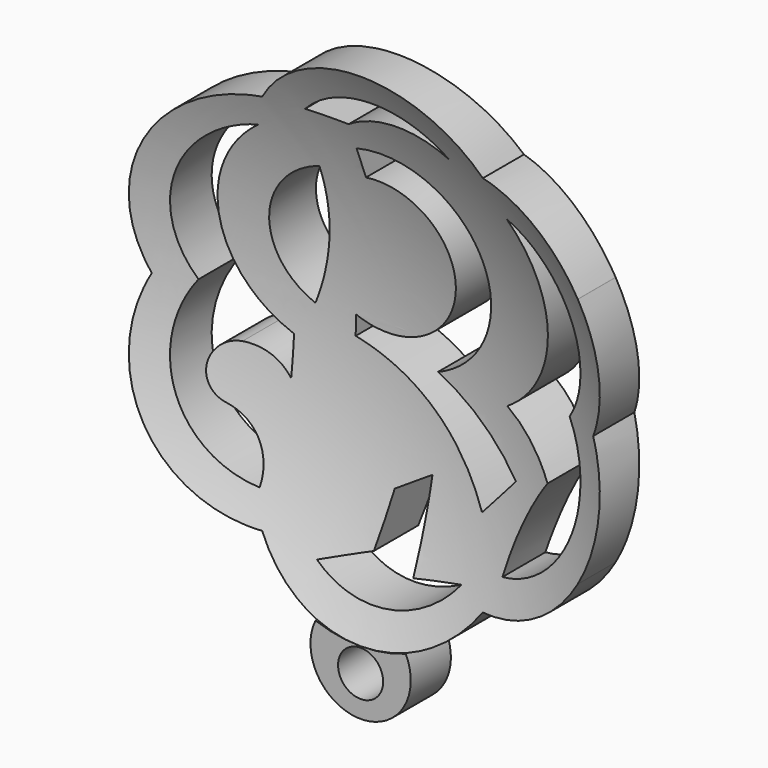
from build123d import *

# Parameters (mm, degrees)
F3_DEPTH  = 25.4
F5_DEPTH  = 25.4
F8_DEPTH  = 25.4
F9_DEPTH  = 25.4
F10_R     = 1.143
F11_DEPTH = 2.54


with BuildPart() as f1:
    # F0 (on Top) → F1 (revolve)
    with BuildSketch(Plane.XY):
        with BuildLine():
            ThreePointArc((-12.7, 0), (-6.54543, 2.369221), (0, 3.175))
            Line((0, 3.175), (0, 6.35))
            ThreePointArc((0, 6.35), (-6.65047, 5.338949), (-12.7, 2.397156))
            Line((-12.7, 2.397156), (-12.7, 0))
        make_face()
    revolve(axis=Axis((0, 4.7625, 0), (0, -1, 0)))

    # F2 (on Front) → F3 (intersect)
    with BuildSketch(Plane.XZ):
        with BuildLine():
            ThreePointArc((-11.176, 0), (-10.998523, -6.35), (-5.588, -9.6787))
            ThreePointArc((-5.588, -9.6787), (0, -12.7), (5.588, -9.6787))
            ThreePointArc((5.588, -9.6787), (10.998523, -6.35), (11.176, 0))
            ThreePointArc((11.176, 0), (10.998523, 6.35), (5.588, 9.6787))
            ThreePointArc((5.588, 9.6787), (0, 12.7), (-5.588, 9.6787))
            ThreePointArc((-5.588, 9.6787), (-10.998523, 6.35), (-11.176, 0))
        make_face()
    extrude(amount=-F3_DEPTH, mode=Mode.INTERSECT)

    # F4 (on Front) → F5 (cut)
    with BuildSketch(Plane.XZ):
        with BuildLine():
            Line((-0.554344, -9.256362), (-2.998691, -10.213903))
            ThreePointArc((-2.998691, -10.213903), (0.774945, -11.11741), (4.109375, -9.132912))
            Line((4.109375, -9.132912), (1.605566, -9.688362))
            Line((1.605566, -9.688362), (1.605566, -5.569409))
            Line((1.605566, -5.569409), (-0.141061, -6.668766))
            Line((-0.141061, -6.668766), (-0.554344, -9.256362))
        make_face()
        with BuildLine():
            ThreePointArc((8.115981, -3.49122), (6.891984, -5.65901), (6.241233, -8.061926))
            ThreePointArc((6.241233, -8.061926), (10.014341, -4.890371), (9.3984, 0))
            ThreePointArc((9.3984, 0), (10.058784, 4.772676), (6.486493, 8.00583))
            ThreePointArc((6.486493, 8.00583), (8.08328, 3.081174), (5.341064, -1.309978))
            ThreePointArc((5.341064, -1.309978), (6.869822, -2.220841), (8.115981, -3.49122))
        make_face()
        with BuildLine():
            ThreePointArc((-6.130124, 8.083234), (-9.993425, 4.94293), (-9.3984, 0))
            ThreePointArc((-9.3984, 0), (-9.984023, -4.966023), (-6.081006, -8.09185))
            ThreePointArc((-6.081006, -8.09185), (-6.471355, -6.211389), (-7.982153, -5.025642))
            ThreePointArc((-7.982153, -5.025642), (-8.907618, -3.516843), (-7.565281, -2.363113))
            ThreePointArc((-7.565281, -2.363113), (-6.356051, -2.661506), (-5.431875, -3.496476))
            Line((-5.431875, -3.496476), (-5.431875, -1.579726))
            ThreePointArc((-5.431875, -1.579726), (-8.460497, 3.058132), (-6.130124, 8.083234))
        make_face()
        with BuildLine():
            ThreePointArc((-1.734171, 9.439647), (0.880552, 10.3129), (3.575757, 9.733926))
            ThreePointArc((3.575757, 9.733926), (-0.100091, 11.175028), (-3.717208, 9.592277))
            Line((-3.717208, 9.592277), (-1.734171, 9.439647))
        make_face()
    extrude(amount=-F5_DEPTH, mode=Mode.SUBTRACT)

    # F6 (on Front) → F8 (cut)
    with BuildSketch(Plane.XZ):
        with BuildLine():
            ThreePointArc((-4.521349, 0), (-3.743859, 3.280134), (-3.743661, 6.651153))
            ThreePointArc((-3.743661, 6.651153), (-6.363724, 3.586463), (-4.521349, 0))
        make_face()
    extrude(amount=-F8_DEPTH, mode=Mode.SUBTRACT)

    # F7 (on Front) → F9 (cut)
    with BuildSketch(Plane.XZ):
        with BuildLine():
            ThreePointArc((-2.67016, -0.961579), (1.364228, -2.906166), (4.479368, -6.123867))
            Line((4.479368, -6.123867), (6.173645, -4.209358))
            ThreePointArc((6.173645, -4.209358), (3.928246, -2.535719), (1.432198, -1.265823))
            ThreePointArc((1.432198, -1.265823), (4.270351, 4.91336), (-1.678003, 8.207977))
            Line((-1.678003, 8.207977), (-1.538206, 6.7819))
            ThreePointArc((-1.538206, 6.7819), (2.467427, 2.627912), (-2.67016, 0))
            Line((-2.67016, 0), (-2.67016, -0.961579))
        make_face()
    extrude(amount=-F9_DEPTH, mode=Mode.SUBTRACT)

    # F10 (on Front) → F11 (join)
    with BuildSketch(Plane.XZ):
        with BuildLine():
            ThreePointArc((2.286, -12.296559), (0, -12.7), (-2.286, -12.296559))
            ThreePointArc((-2.286, -12.296559), (0, -15.943719), (2.286, -12.296559))
        make_face()
        with Locations((0, -13.911719)):
            Circle(F10_R, mode=Mode.SUBTRACT)
    extrude(amount=-F11_DEPTH)


solid = f1.part
